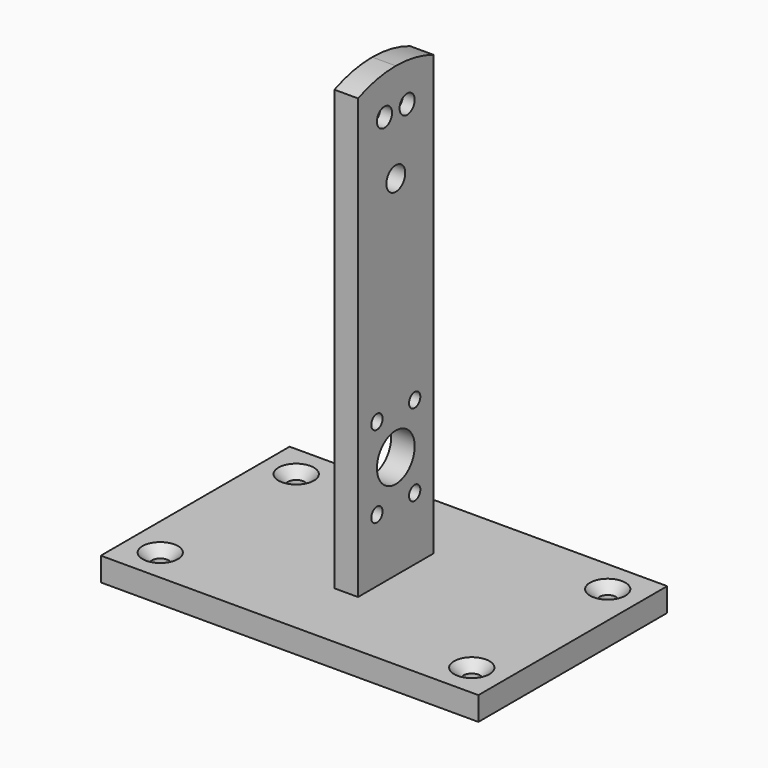
from build123d import *

# Parameters (mm, degrees)
F0_W     = 80
F0_H     = 50
F0_R     = 1.75
F0_W_2   = 5
F0_H_2   = 12
F1_DEPTH = 5
F2_SIZE  = 2
F3_R     = 1.5
F3_R_2   = 5
F3_R_3   = 2
F3_R_4   = 2.5
F3_W     = 12
F3_H     = 5
F3_R_5   = 1
F4_DEPTH = 5
F5_DEPTH = 2.5


with BuildPart() as f1:
    # F0 (on Top) → F1 (new body)
    with BuildSketch(Plane.XY):
        with Locations((40, 25)):
            Rectangle(F0_W, F0_H)
        with Locations((7, 7)):
            Circle(F0_R, mode=Mode.SUBTRACT)
        with Locations((73, 7)):
            Circle(F0_R, mode=Mode.SUBTRACT)
        with Locations((7, 43)):
            Circle(F0_R, mode=Mode.SUBTRACT)
        with Locations((40, 25)):
            Rectangle(F0_W_2, F0_H_2, mode=Mode.SUBTRACT)
        with Locations((73, 43)):
            Circle(F0_R, mode=Mode.SUBTRACT)
    extrude(amount=F1_DEPTH)

    # F2
    f2_edges = [f1.edges().sort_by_distance(p)[0] for p in [
        (5.25, 43, 5),
        (71.25, 43, 5),
        (71.25, 7, 5),
        (5.25, 7, 5),
    ]]
    chamfer(f2_edges, length=F2_SIZE)


with BuildPart() as f4:
    # F3 (on face) → F4 (new body)
    with BuildSketch(Plane(origin=(42.5, 0, 0), x_dir=(0, -1, 0), z_dir=(-1, 0, 0))):
        with BuildLine():
            Line((-35, 5), (-31, 5))
            Line((-31, 5), (-19, 5))
            Line((-19, 5), (-15, 5))
            Line((-15, 5), (-15, 98))
            ThreePointArc((-15, 98), (-19.90098, 99.495098), (-25, 100))
            ThreePointArc((-25, 100), (-30.09902, 99.495098), (-35, 98))
            Line((-35, 98), (-35, 5))
        make_face()
        with Locations((-30, 18.339746)):
            Circle(F3_R, mode=Mode.SUBTRACT)
        with Locations((-30, 35.660254)):
            Circle(F3_R, mode=Mode.SUBTRACT)
        with Locations((-20, 18.339746)):
            Circle(F3_R, mode=Mode.SUBTRACT)
        with Locations((-25, 27)):
            Circle(F3_R_2, mode=Mode.SUBTRACT)
        with Locations((-20, 35.660254)):
            Circle(F3_R, mode=Mode.SUBTRACT)
        with Locations((-28, 91.649111)):
            Circle(F3_R_3, mode=Mode.SUBTRACT)
        with Locations((-25, 79)):
            Circle(F3_R_4, mode=Mode.SUBTRACT)
        with Locations((-22, 91.649111)):
            Circle(F3_R_3, mode=Mode.SUBTRACT)
        with Locations((-25, 2.5)):
            Rectangle(F3_W, F3_H)
        with Locations((-22, 91.649111)):
            Circle(F3_R_3)
        with Locations((-22, 91.649111)):
            Circle(F3_R_5, mode=Mode.SUBTRACT)
        with Locations((-28, 91.649111)):
            Circle(F3_R_3)
        with Locations((-28, 91.649111)):
            Circle(F3_R_5, mode=Mode.SUBTRACT)
    extrude(amount=F4_DEPTH)

    # F3 (on face) → F5 (cut)
    with BuildSketch(Plane(origin=(42.5, 0, 0), x_dir=(0, -1, 0), z_dir=(-1, 0, 0))):
        with Locations((-22, 91.649111)):
            Circle(F3_R_3)
        with Locations((-22, 91.649111)):
            Circle(F3_R_5, mode=Mode.SUBTRACT)
        with Locations((-28, 91.649111)):
            Circle(F3_R_3)
        with Locations((-28, 91.649111)):
            Circle(F3_R_5, mode=Mode.SUBTRACT)
    extrude(amount=F5_DEPTH, mode=Mode.SUBTRACT)


solid = Compound([f1.part, f4.part])
